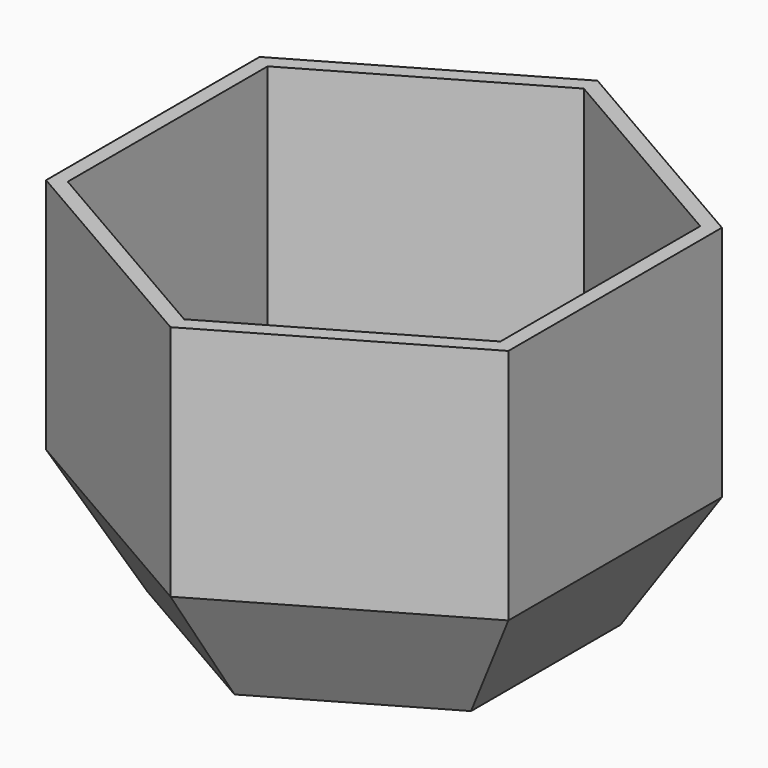
from build123d import *

# Parameters (mm, degrees)
F9_T = -2.5


with BuildPart() as f4:
    # F0 (on Top) → F4 section 0
    with BuildSketch(Plane.XY):
        Polygon((27.2798002192, 15.75), (0, 31.5), (-27.2798002192, 15.75), (-27.2798002192, -15.75), (0, -31.5), (27.2798002192, -15.75), align=None)
    # F2 (on offset) → F4 section 1
    with BuildSketch(Plane.XY.offset(20)):
        Polygon((-38.9711431703, -22.5), (0, -45), (38.9711431703, -22.5), (38.9711431703, 22.5), (0, 45), (-38.9711431703, 22.5), align=None)
    loft()


with BuildPart() as f5_1:
    # F5: copy of F4
    add(f4.part.moved(Location((0, 133, 0))))


with BuildPart() as f4_1:
    add(f4.part)

    # F4_face (on face) → F8 section 0
    with BuildSketch(Plane.XY.offset(20)):
        Polygon((38.9711431703, 22.5), (0, 45), (-38.9711431703, 22.5), (-38.9711431703, -22.5), (0, -45), (38.9711431703, -22.5), align=None)
    # F6 (on offset) → F8 section 1
    with BuildSketch(Plane.XY.offset(60)):
        Polygon((-38.9711431703, -22.5), (0, -45), (38.9711431703, -22.5), (38.9711431703, 22.5), (0, 45), (-38.9711431703, 22.5), align=None)
    loft()

    # F9
    f9_openings = [f4_1.faces().sort_by_distance(p)[0] for p in [
        (0, 0, 60),
    ]]
    offset(amount=F9_T, openings=f9_openings, kind=Kind.INTERSECTION)


solid = f4_1.part
